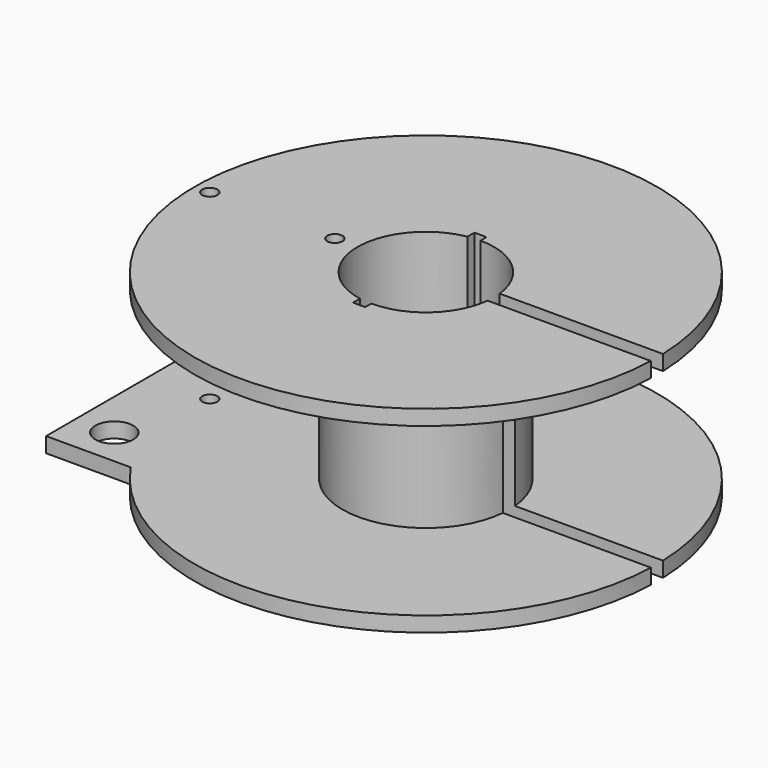
from build123d import *

# Parameters (mm, degrees)
CYLINDER018_R     = 1
CYLINDER018_DEPTH = 26
CYLINDER019_R     = 1
CYLINDER019_DEPTH = 26
BOX007_W          = 30
BOX007_H          = 2
BOX007_DEPTH      = 26
CYLINDER016_R     = 2.5
CYLINDER016_DEPTH = 10
CYLINDER017_R     = 2.5
CYLINDER017_DEPTH = 10
BOX005_W          = 15
BOX005_H          = 34
BOX005_DEPTH      = 2
BOX004_W          = 1.6
BOX004_H          = 20
BOX004_DEPTH      = 26
CYLINDER010_R     = 11
CYLINDER010_DEPTH = 22
CYLINDER009_R     = 30.5
CYLINDER009_DEPTH = 22
CYLINDER008_R     = 9
CYLINDER008_DEPTH = 26
CYLINDER007_R     = 30.5
CYLINDER007_DEPTH = 26


with BuildPart() as cylinder018:
    # Cylinder018 → Cylinder018 (new body)
    with BuildSketch(Plane(origin=(39.5, 17, 0), x_dir=(1, 0, 0), z_dir=(0, 0, 1))):
        Circle(CYLINDER018_R)
    extrude(amount=CYLINDER018_DEPTH)


with BuildPart() as wireholes:
    # Cylinder019 → Cylinder019 (new body)
    with BuildSketch(Plane(origin=(23, 17, 0), x_dir=(1, 0, 0), z_dir=(0, 0, 1))):
        Circle(CYLINDER019_R)
    extrude(amount=CYLINDER019_DEPTH)

    # Fusion007: union Cylinder018
    add(cylinder018.part)


with BuildPart() as cube007:
    # Box007 → Box007 (new body)
    with BuildSketch(Plane(origin=(53, 16, 0), x_dir=(1, 0, 0), z_dir=(0, 0, 1))):
        with Locations((15, 1)):
            Rectangle(BOX007_W, BOX007_H)
    extrude(amount=BOX007_DEPTH)


with BuildPart() as cylinder016:
    # Cylinder016 → Cylinder016 (new body)
    with BuildSketch(Plane(origin=(20, 5, 0), x_dir=(1, 0, 0), z_dir=(0, 0, 1))):
        Circle(CYLINDER016_R)
    extrude(amount=CYLINDER016_DEPTH)


with BuildPart() as obj1:
    # Cylinder017 → Cylinder017 (new body)
    with BuildSketch(Plane(origin=(20, 29, 0), x_dir=(1, 0, 0), z_dir=(0, 0, 1))):
        Circle(CYLINDER017_R)
    extrude(amount=CYLINDER017_DEPTH)

    # Fusion005: union Cylinder016
    add(cylinder016.part)


with BuildPart() as cut010:
    # Box005 → Box005 (new body)
    with BuildSketch(Plane(origin=(15, 0, 0), x_dir=(1, 0, 0), z_dir=(0, 0, 1))):
        with Locations((7.5, 17)):
            Rectangle(BOX005_W, BOX005_H)
    extrude(amount=BOX005_DEPTH)

    # Cut010: cut obj1
    add(obj1.part, mode=Mode.SUBTRACT)


with BuildPart() as cube004:
    # Box004 → Box004 (new body)
    with BuildSketch(Plane(origin=(49.9, 7, 0), x_dir=(1, 0, 0), z_dir=(0, 0, 1))):
        with Locations((0.8, 10)):
            Rectangle(BOX004_W, BOX004_H)
    extrude(amount=BOX004_DEPTH)


with BuildPart() as cylinder010:
    # Cylinder010 → Cylinder010 (new body)
    with BuildSketch(Plane.XY):
        Circle(CYLINDER010_R)
    extrude(amount=CYLINDER010_DEPTH)


with BuildPart() as obj2:
    # Cylinder009 → Cylinder009 (new body)
    with BuildSketch(Plane.XY):
        Circle(CYLINDER009_R)
    extrude(amount=CYLINDER009_DEPTH)

    # Cut004: cut Cylinder010
    add(cylinder010.part, mode=Mode.SUBTRACT)


with BuildPart() as obj2_1:
    # Cut004 placement: moved
    add(obj2.part.moved(Location((51.5, 17, 2))))


with BuildPart() as cylinder008:
    # Cylinder008 → Cylinder008 (new body)
    with BuildSketch(Plane.XY):
        Circle(CYLINDER008_R)
    extrude(amount=CYLINDER008_DEPTH)


with BuildPart() as coilholder:
    # Cylinder007 → Cylinder007 (new body)
    with BuildSketch(Plane.XY):
        Circle(CYLINDER007_R)
    extrude(amount=CYLINDER007_DEPTH)

    # Cut002: cut Cylinder008
    add(cylinder008.part, mode=Mode.SUBTRACT)


with BuildPart() as coilholder_1:
    # Cut002 placement: moved
    add(coilholder.part.moved(Location((51.5, 17, 0))))

    # Cut005: cut obj2
    add(obj2_1.part, mode=Mode.SUBTRACT)

    # Cut007: cut Cube004
    add(cube004.part, mode=Mode.SUBTRACT)

    # Fusion006: union Cut010
    add(cut010.part)

    # Cut012: cut Cube007
    add(cube007.part, mode=Mode.SUBTRACT)

    # Cut013: cut WireHoles
    add(wireholes.part, mode=Mode.SUBTRACT)


solid = coilholder_1.part
